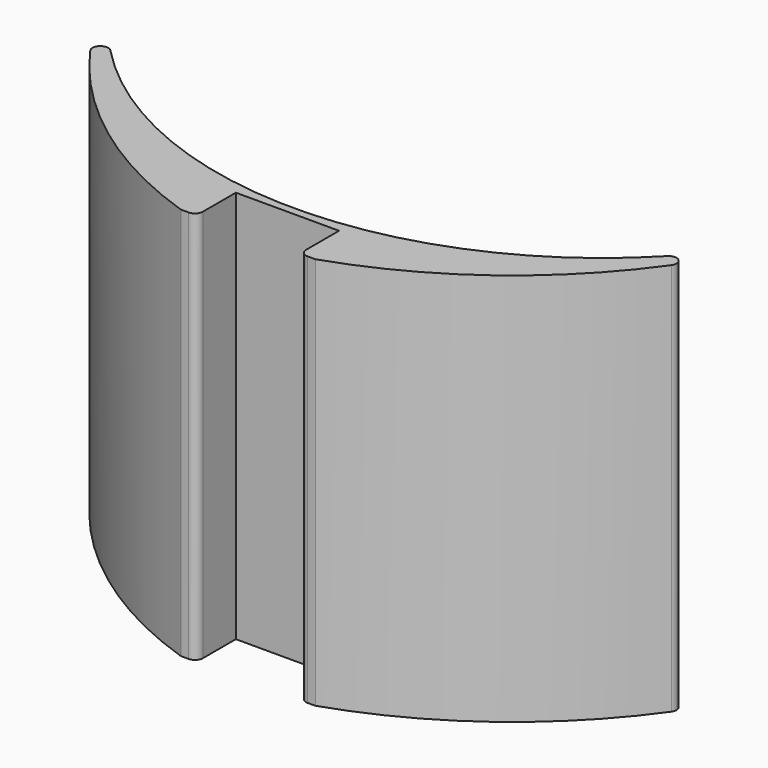
from build123d import *

# Parameters (mm, degrees)
F1_DEPTH = 40
F2_R     = 0.8


with BuildPart() as f1:
    # F0 (on Top) → F1 (new body)
    with BuildSketch(Plane.XY):
        with BuildLine():
            ThreePointArc((35.25, 0), (0, -22), (-35.25, 0))
            ThreePointArc((-35.25, 0), (-24.245657, -17.164628), (-6.85, -27.8))
            Line((-6.85, -27.8), (-5.25, -27.8))
            Line((-5.25, -27.8), (-5.25, -22.8))
            Line((-5.25, -22.8), (5.25, -22.8))
            Line((5.25, -22.8), (5.25, -27.8))
            Line((5.25, -27.8), (6.85, -27.8))
            ThreePointArc((6.85, -27.8), (24.245657, -17.164628), (35.25, 0))
        make_face()
    extrude(amount=F1_DEPTH)

    # F2
    f2_edges = [f1.edges().sort_by_distance(p)[0] for p in [
        (-35.25, 0, 20),
        (35.25, 0, 20),
        (-5.25, -27.8, 20),
        (5.25, -27.8, 20),
    ]]
    fillet(f2_edges, radius=F2_R)


solid = f1.part
